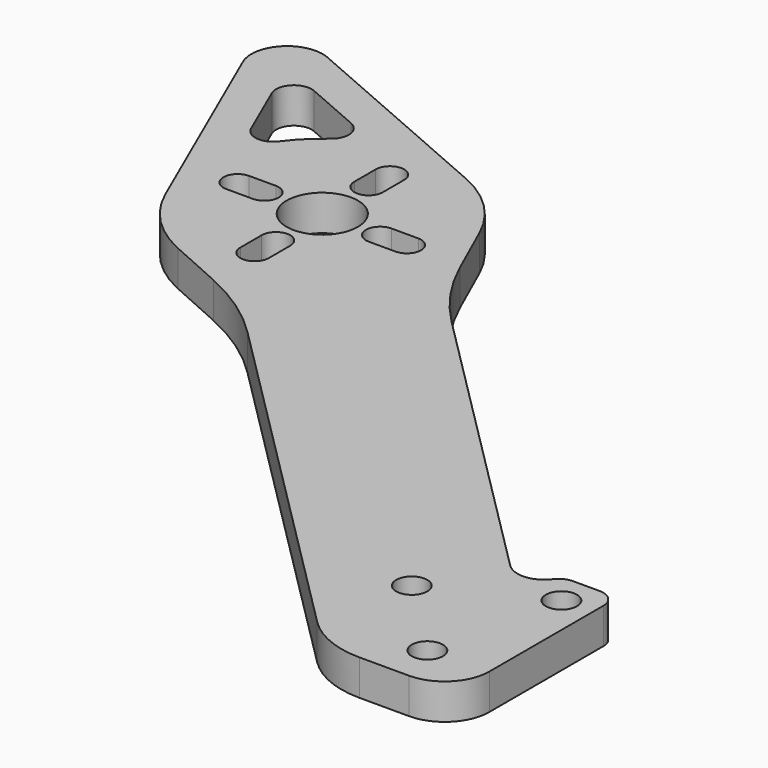
from build123d import *

# Parameters (mm, degrees)
F0_R     = 1.75
F0_R_2   = 4
F1_DEPTH = 4


with BuildPart() as f1:
    # F0 (on Top) → F1 (new body)
    with BuildSketch(Plane.XY):
        with BuildLine():
            ThreePointArc((-26.156854, 13.428932), (-22.912621, 11.261205), (-19.085786, 10.5))
            Line((-19.085786, 10.5), (-13.5, 10.5))
            ThreePointArc((-13.5, 10.5), (-9.964466, 11.964466), (-8.5, 15.5))
            Line((-8.5, 15.5), (-8.5, 31.5))
            ThreePointArc((-8.5, 31.5), (-9.085786, 32.914214), (-10.5, 33.5))
            Line((-10.5, 33.5), (-13.5, 33.5))
            ThreePointArc((-13.5, 33.5), (-14.398188, 33.286969), (-15.105034, 32.693259))
            ThreePointArc((-15.105034, 32.693259), (-17.293624, 31.491148), (-19.633905, 32.361827))
            Line((-19.633905, 32.361827), (-52.591227, 65.319149))
            ThreePointArc((-52.591227, 65.319149), (-55.915686, 69.313711), (-58.459499, 73.845551))
            Line((-58.459499, 73.845551), (-61.235804, 80.059283))
            ThreePointArc((-61.235804, 80.059283), (-64.218304, 84.370617), (-68.558002, 87.311692))
            Line((-68.558002, 87.311692), (-92.448511, 97.712705))
            ThreePointArc((-92.448511, 97.712705), (-96.873629, 96.873629), (-97.712705, 92.448511))
            Line((-97.712705, 92.448511), (-87.311692, 68.558002))
            ThreePointArc((-87.311692, 68.558002), (-84.370617, 64.218304), (-80.059283, 61.235804))
            Line((-80.059283, 61.235804), (-73.845551, 58.459499))
            ThreePointArc((-73.845551, 58.459499), (-69.313711, 55.915686), (-65.319149, 52.591227))
            Line((-65.319149, 52.591227), (-26.156854, 13.428932))
        make_face()
        with Locations((-15.25, 15.25)):
            Circle(F0_R, mode=Mode.SUBTRACT)
        with Locations((-24, 24)):
            Circle(F0_R, mode=Mode.SUBTRACT)
        with Locations((-12, 30)):
            Circle(F0_R, mode=Mode.SUBTRACT)
        with BuildLine():
            Line((-83.746212, 75.846212), (-80.746212, 75.846212))
            ThreePointArc((-80.746212, 75.846212), (-79.146212, 74.246212), (-80.746212, 72.646212))
            Line((-80.746212, 72.646212), (-83.746212, 72.646212))
            ThreePointArc((-83.746212, 72.646212), (-85.346212, 74.246212), (-83.746212, 75.846212))
        make_face(mode=Mode.SUBTRACT)
        with BuildLine():
            Line((-75.846212, 64.746212), (-75.846212, 67.746212))
            ThreePointArc((-75.846212, 67.746212), (-74.246212, 69.346212), (-72.646212, 67.746212))
            Line((-72.646212, 67.746212), (-72.646212, 64.746212))
            ThreePointArc((-72.646212, 64.746212), (-74.246212, 63.146212), (-75.846212, 64.746212))
        make_face(mode=Mode.SUBTRACT)
        with Locations((-74.246212, 74.246212)):
            Circle(F0_R_2, mode=Mode.SUBTRACT)
        with BuildLine():
            Line((-64.746212, 72.646212), (-67.746212, 72.646212))
            ThreePointArc((-67.746212, 72.646212), (-69.346212, 74.246212), (-67.746212, 75.846212))
            Line((-67.746212, 75.846212), (-64.746212, 75.846212))
            ThreePointArc((-64.746212, 75.846212), (-63.146212, 74.246212), (-64.746212, 72.646212))
        make_face(mode=Mode.SUBTRACT)
        with BuildLine():
            ThreePointArc((-82.990954, 89.232606), (-81.801067, 87.615492), (-82.614765, 85.780067))
            ThreePointArc((-82.614765, 85.780067), (-84.322484, 84.322484), (-85.780067, 82.614765))
            ThreePointArc((-85.780067, 82.614765), (-87.615492, 81.801067), (-89.232606, 82.990954))
            Line((-89.232606, 82.990954), (-92.015736, 89.383639))
            ThreePointArc((-92.015736, 89.383639), (-91.596198, 91.596198), (-89.383639, 92.015736))
            Line((-89.383639, 92.015736), (-82.990954, 89.232606))
        make_face(mode=Mode.SUBTRACT)
        with BuildLine():
            Line((-72.646212, 83.746212), (-72.646212, 80.746212))
            ThreePointArc((-72.646212, 80.746212), (-74.246212, 79.146212), (-75.846212, 80.746212))
            Line((-75.846212, 80.746212), (-75.846212, 83.746212))
            ThreePointArc((-75.846212, 83.746212), (-74.246212, 85.346212), (-72.646212, 83.746212))
        make_face(mode=Mode.SUBTRACT)
    extrude(amount=F1_DEPTH)


solid = f1.part
